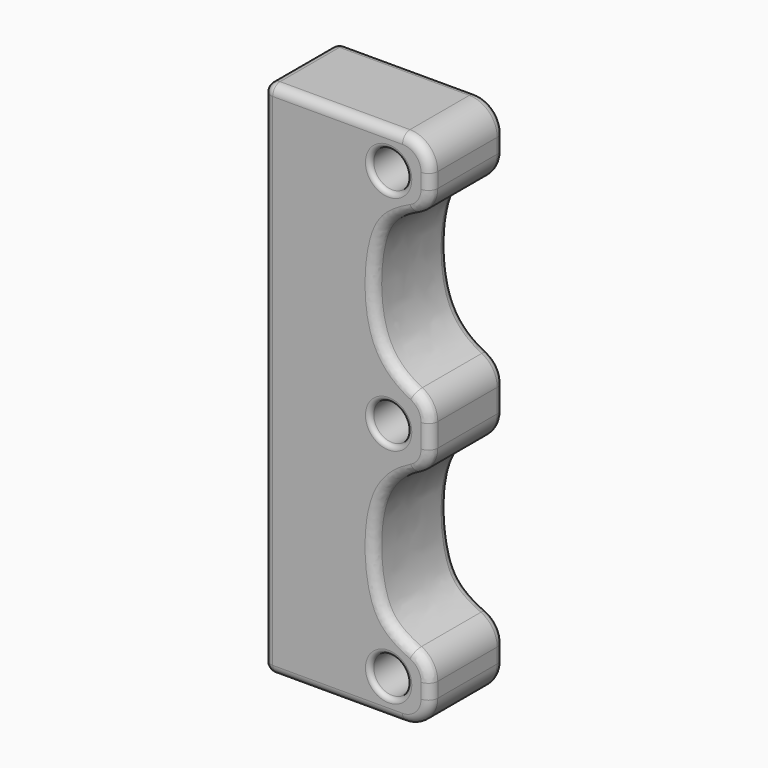
from build123d import *

# Parameters (mm, degrees)
F0_W      = 18
F0_H      = 56
F1_DEPTH  = 10
F2_R      = 2
F3_DEPTH  = 25
F4_R      = 3
F6_DEPTH  = 25
F7_R      = 3
F8_R      = 1
F10_W     = 6.2
F10_H     = 16.2
F11_DEPTH = 2.5
F12_R     = 1
F13_R     = 0.5
F14_W     = 4.2
F14_H     = 14.2
F15_DEPTH = 1


with BuildPart() as f1:
    # F0 (on Front) → F1 (new body)
    with BuildSketch(Plane.XZ):
        with Locations((9, 0)):
            Rectangle(F0_W, F0_H)
    extrude(amount=F1_DEPTH)

    # F2 (on face) → F3 (cut)
    with BuildSketch(Plane.XZ.offset(10)):
        with Locations((13.5, 0)):
            Circle(F2_R)
        with Locations((13.5, -24)):
            Circle(F2_R)
        with Locations((13.5, 24)):
            Circle(F2_R)
    extrude(amount=-F3_DEPTH, mode=Mode.SUBTRACT)

    # F4
    f4_edges = [f1.edges().sort_by_distance(p)[0] for p in [
        (18, -5, 28),
        (18, -5, -28),
    ]]
    fillet(f4_edges, radius=F4_R)

    # F5 (on face) → F6 (cut)
    with BuildSketch(Plane.XZ.offset(10)):
        with BuildLine():
            Line((18, 3.2415748574), (18, 21.3836580515))
            add(Edge.make_bspline(
                [(18, 21.3836580515), (14.2494980246, 19.9711695313), (11.9194824097, 17.8494633808), (11.5903775307, 7.2686452657), (14.9617330051, 4.3426546719), (18, 3.2415748574)],
                knots=[0, 0, 0, 0, 0.3209354956, 0.6753904127, 1, 1, 1, 1], degree=3))
        make_face()
        with BuildLine():
            add(Edge.make_bspline(
                [(18, -21.3836580515), (14.2494980246, -19.9711695313), (11.9194824097, -17.8494633808), (11.5903775307, -7.2686452657), (14.9617330051, -4.3426546719), (18, -3.2415748574)],
                knots=[0, 0, 0, 0, 0.3209354956, 0.6753904127, 1, 1, 1, 1], degree=3))
            Line((18, -21.3836580515), (18, -3.2415748574))
        make_face()
    extrude(amount=-F6_DEPTH, mode=Mode.SUBTRACT)

    # F7
    f7_edges = [f1.edges().sort_by_distance(p)[0] for p in [
        (18, -5, 21.383658),
        (18, -5, -21.383658),
        (18, -5, 3.241575),
        (18, -5, -3.241575),
    ]]
    fillet(f7_edges, radius=F7_R)

    # F8
    f8_edges = [f1.edges().sort_by_distance(p)[0] for p in [
        (0, -5, -28),
        (0, -5, 28),
    ]]
    fillet(f8_edges, radius=F8_R)

    # F10 (on offset) → F11 (cut)
    with BuildSketch(Plane(origin=(1, 0, 0), x_dir=(0, -1, 0), z_dir=(-1, 0, 0))):
        with Locations((5.1, -17.7)):
            Rectangle(F10_W, F10_H)
        with Locations((5.1, 0)):
            Rectangle(F10_W, F10_H)
        with Locations((5.1, 17.7)):
            Rectangle(F10_W, F10_H)
    extrude(amount=-F11_DEPTH, mode=Mode.SUBTRACT)

    # F12
    f12_edges = [f1.edges().sort_by_distance(p)[0] for p in [
        (8, -10, 28),
        (0, 0, 0),
    ]]
    fillet(f12_edges, radius=F12_R)

    # F13
    f13_edges = [f1.edges().sort_by_distance(p)[0] for p in [
        (11.5, -10, -24),
        (11.5, -10, 0),
        (11.5, -10, 24),
        (11.5, 0, 24),
        (11.5, 0, 0),
        (11.5, 0, -24),
    ]]
    fillet(f13_edges, radius=F13_R)

    # F14 (on face) → F15 (cut, through all)
    with BuildSketch(Plane(origin=(0, 0, 0), x_dir=(0, -1, 0), z_dir=(-1, 0, 0))):
        with Locations((5.1, 17.7)):
            Rectangle(F14_W, F14_H)
        with Locations((5.1, 0)):
            Rectangle(F14_W, F14_H)
        with Locations((5.1, -17.7)):
            Rectangle(F14_W, F14_H)
    extrude(amount=-F15_DEPTH, mode=Mode.SUBTRACT)


solid = f1.part
